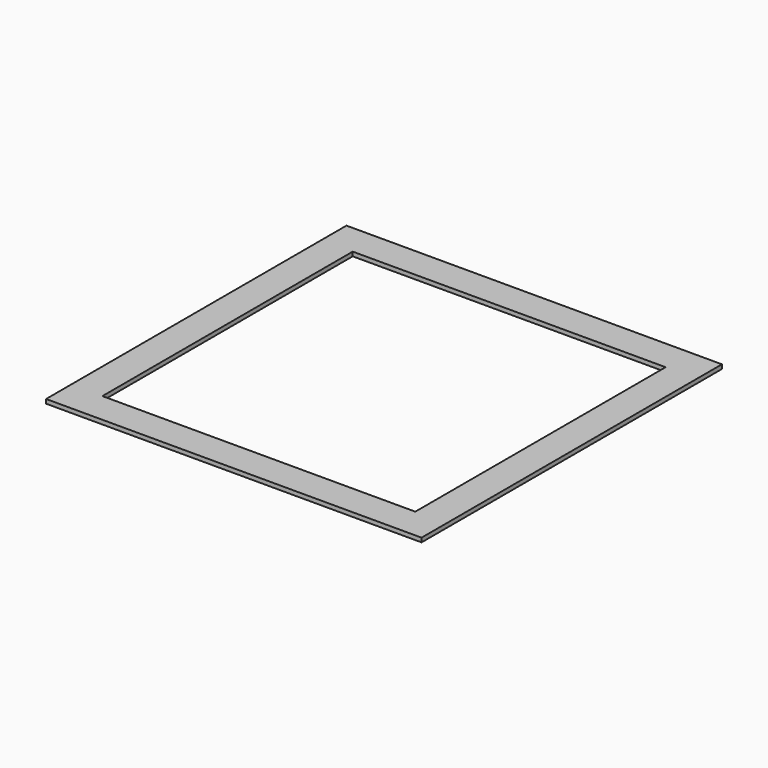
from build123d import *

# Parameters (mm, degrees)
SKETCH_W   = 180
SKETCH_H   = 180
SKETCH_W_2 = 150
SKETCH_H_2 = 150
PAD_DEPTH  = 2


with BuildPart() as part:
    # Sketch (on DatumPlane) → Pad (new body)
    with BuildSketch(Plane.XY.offset(-2)):
        Rectangle(SKETCH_W, SKETCH_H)
        Rectangle(SKETCH_W_2, SKETCH_H_2, mode=Mode.SUBTRACT)
    extrude(amount=PAD_DEPTH)


solid = part.part
